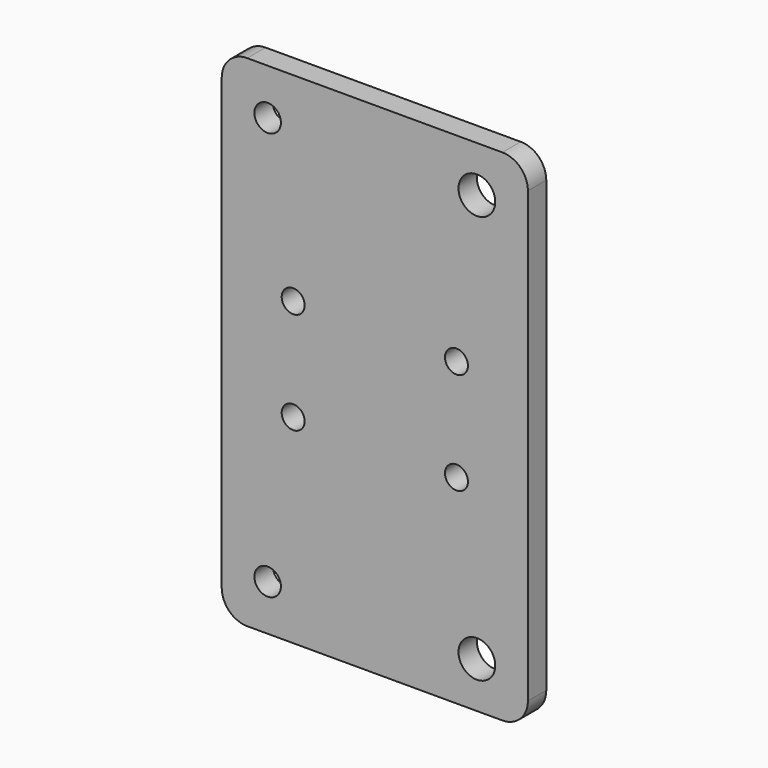
from build123d import *

# Parameters (mm, degrees)
F0_W     = 60
F0_H     = 98
F0_R     = 2.6
F0_R_2   = 2.25
F0_R_3   = 3.6
F1_DEPTH = 2.25
F2_R     = 5


with BuildPart() as f1:
    # F0 (on Front) → F1 (new body, symmetric)
    with BuildSketch(Plane.XZ):
        Rectangle(F0_W, F0_H)
        with Locations((-21, -40)):
            Circle(F0_R, mode=Mode.SUBTRACT)
        with Locations((-16, -10)):
            Circle(F0_R_2, mode=Mode.SUBTRACT)
        with Locations((20, -40)):
            Circle(F0_R_3, mode=Mode.SUBTRACT)
        with Locations((16, -10)):
            Circle(F0_R_2, mode=Mode.SUBTRACT)
        with Locations((-16, 10)):
            Circle(F0_R_2, mode=Mode.SUBTRACT)
        with Locations((-21, 40)):
            Circle(F0_R, mode=Mode.SUBTRACT)
        with Locations((16, 10)):
            Circle(F0_R_2, mode=Mode.SUBTRACT)
        with Locations((20, 40)):
            Circle(F0_R_3, mode=Mode.SUBTRACT)
    extrude(amount=F1_DEPTH, both=True)

    # F2
    f2_edges = [f1.edges().sort_by_distance(p)[0] for p in [
        (-30, 0, 49),
        (30, 0, 49),
        (30, 0, -49),
        (-30, 0, -49),
    ]]
    fillet(f2_edges, radius=F2_R)


solid = f1.part
